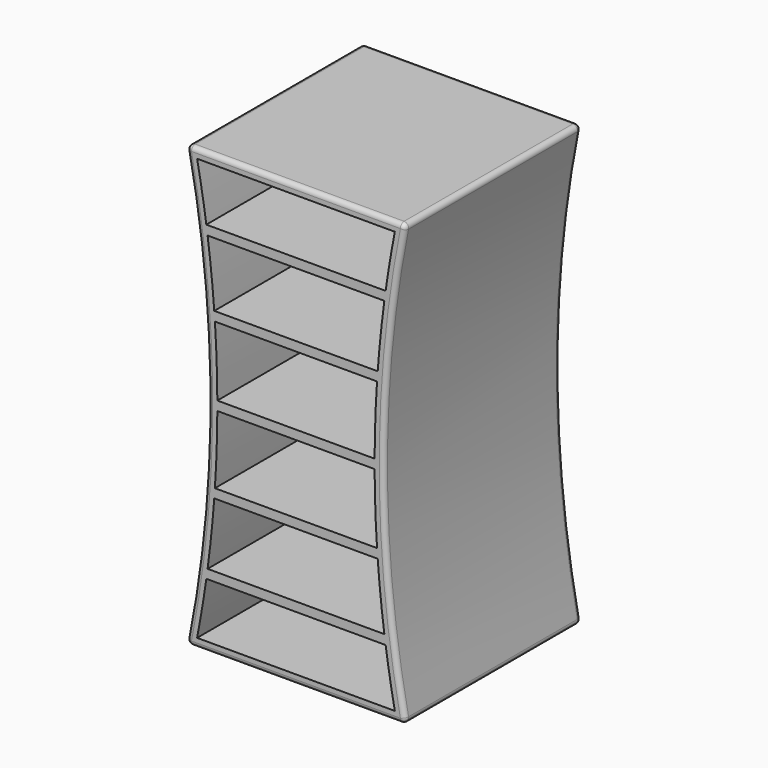
from build123d import *

# Parameters (mm, degrees)
F1_DEPTH = 304.8
F2_R     = 12.7
F4_DEPTH = 609.601


with BuildPart() as f1:
    # F0 (on Front) → F1 (new body, symmetric)
    with BuildSketch(Plane.XZ):
        with BuildLine():
            Line((304.8, 609.6), (-304.8, 609.6))
            ThreePointArc((-304.8, 609.6), (-243.217894, 0), (-304.8, -609.6))
            Line((-304.8, -609.6), (304.8, -609.6))
            ThreePointArc((304.8, -609.6), (243.217894, 0), (304.8, 609.6))
        make_face()
    extrude(amount=F1_DEPTH, both=True)

    # F2
    f2_edges = [f1.edges().sort_by_distance(p)[0] for p in [
        (304.8, 0, 609.6),
        (0, -304.8, 609.6),
        (-304.8, 0, 609.6),
        (0, 304.8, 609.6),
        (0, -304.8, -609.6),
        (304.8, 0, -609.6),
        (0, 304.8, -609.6),
        (-304.8, 0, -609.6),
        (243.217894, -304.8, 0),
        (-243.217894, -304.8, 0),
        (243.217894, 304.8, 0),
        (-243.217894, 304.8, 0),
    ]]
    fillet(f2_edges, radius=F2_R)

    # F3 (on face) → F4 (cut, through all)
    with BuildSketch(Plane.XZ.offset(304.8)):
        with BuildLine():
            ThreePointArc((248.302135, 431.8), (260.119024, 508.160601), (273.851838, 584.2))
            Line((273.851838, 584.2), (-273.851838, 584.2))
            ThreePointArc((-273.851838, 584.2), (-260.119024, 508.160601), (-248.302135, 431.8))
            Line((-248.302135, 431.8), (248.302135, 431.8))
        make_face()
        with BuildLine():
            ThreePointArc((273.851838, -584.2), (260.119024, -508.160601), (248.302135, -431.8))
            Line((248.302135, -431.8), (-248.302135, -431.8))
            ThreePointArc((-248.302135, -431.8), (-260.119024, -508.160601), (-273.851838, -584.2))
            Line((-273.851838, -584.2), (273.851838, -584.2))
        make_face()
        with BuildLine():
            ThreePointArc((244.805808, -406.4), (234.275634, -317.634344), (226.331339, -228.6))
            Line((226.331339, -228.6), (-226.331339, -228.6))
            ThreePointArc((-226.331339, -228.6), (-234.275634, -317.634344), (-244.805808, -406.4))
            Line((-244.805808, -406.4), (244.805808, -406.4))
        make_face()
        with BuildLine():
            ThreePointArc((224.542607, -203.2), (219.716122, -108.001944), (217.844134, -12.7))
            Line((217.844134, -12.7), (-217.844134, -12.7))
            ThreePointArc((-217.844134, -12.7), (-219.716122, -108.001944), (-224.542607, -203.2))
            Line((-224.542607, -203.2), (224.542607, -203.2))
        make_face()
        with BuildLine():
            ThreePointArc((217.844134, 12.7), (219.716122, 108.001944), (224.542607, 203.2))
            Line((224.542607, 203.2), (-224.542607, 203.2))
            ThreePointArc((-224.542607, 203.2), (-219.716122, 108.001944), (-217.844134, 12.7))
            Line((-217.844134, 12.7), (217.844134, 12.7))
        make_face()
        with BuildLine():
            ThreePointArc((226.331339, 228.6), (234.275634, 317.634344), (244.805808, 406.4))
            Line((244.805808, 406.4), (-244.805808, 406.4))
            ThreePointArc((-244.805808, 406.4), (-234.275634, 317.634344), (-226.331339, 228.6))
            Line((-226.331339, 228.6), (226.331339, 228.6))
        make_face()
    extrude(amount=-F4_DEPTH, mode=Mode.SUBTRACT)


solid = f1.part
